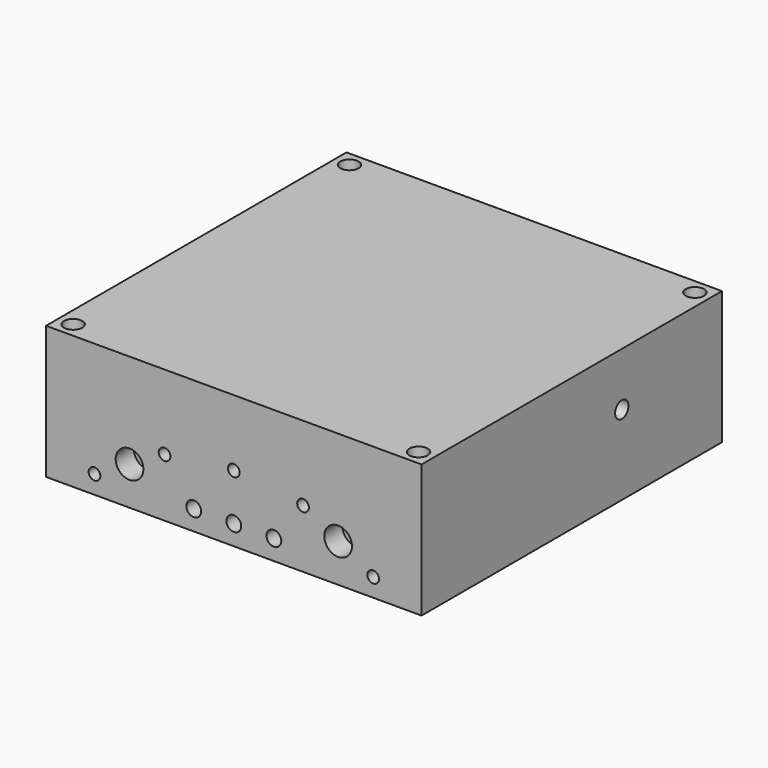
from build123d import *

# Parameters (mm, degrees)
F0_W             = 57.15
F0_H             = 57.15
F1_DEPTH         = 10.12825
F2_R             = 2.1082
F3_DEPTH         = 3.429
F5_R             = 1.397
F6_DEPTH         = 20.2575
F8_D             = 2.2606
F8_DEPTH         = 8.2658857143
F8_TIP           = 0.6791527577
F9_R             = 1.27
F10_DEPTH        = 6.35
F12_D            = 2.2606
F12_DEPTH        = 8.255
F12_TIP          = 0.6791527577
F14_D            = 1.778
F14_DEPTH        = 4.826
F14_TIP          = 0.5341650903
F14_ON_F13_D     = 1.778
F14_ON_F13_DEPTH = 4.826
F14_ON_F13_TIP   = 0.5341650903


with BuildPart() as f1:
    # F0 (on Top) → F1 (new body, symmetric)
    with BuildSketch(Plane.XY):
        Rectangle(F0_W, F0_H)
    extrude(amount=F1_DEPTH, both=True)

    # F2 (on face) → F3 (cut)
    with BuildSketch(Plane.XZ.offset(28.575)):
        with Locations((-15.875, -4.28625)):
            Circle(F2_R)
        with Locations((15.875, -4.28625)):
            Circle(F2_R)
    extrude(amount=-F3_DEPTH, mode=Mode.SUBTRACT)

    # F5 (on face) → F6 (cut, through all)
    with BuildSketch(Plane(origin=(0, 0, -10.12825), x_dir=(1, 0, 0), z_dir=(0, 0, -1))):
        with Locations((-26.289, 26.289)):
            Circle(F5_R)
        with Locations((26.289, 26.289)):
            Circle(F5_R)
        with Locations((26.289, -26.289)):
            Circle(F5_R)
        with Locations((-26.289, -26.289)):
            Circle(F5_R)
    extrude(amount=-F6_DEPTH, mode=Mode.SUBTRACT)

    # F8
    with Locations(Plane(origin=(-28.575, 0, 0), x_dir=(0, -1, 0), z_dir=(-1, 0, 0))):
        with Locations((12.7, 6.31825), (-12.7, 6.31825)):
            Hole(F8_D / 2, depth=F8_DEPTH)
            with Locations((0, 0, -(F8_DEPTH + F8_TIP / 2))):  # 118° drill point
                Cone(0, F8_D / 2, F8_TIP, mode=Mode.SUBTRACT)

    # F9 (on face) → F10 (cut)
    with BuildSketch(Plane.YZ.offset(28.575)):
        with Locations((9.525, 2.00025)):
            Circle(F9_R)
    extrude(amount=-F10_DEPTH, mode=Mode.SUBTRACT)

    # F12
    with Locations(Plane.XZ.offset(28.575)):
        with Locations((-6.096, -7.08025), (0, -7.08025), (6.096, -7.08025)):
            Hole(F12_D / 2, depth=F12_DEPTH)
            with Locations((0, 0, -(F12_DEPTH + F12_TIP / 2))):  # 118° drill point
                Cone(0, F12_D / 2, F12_TIP, mode=Mode.SUBTRACT)

    # F14
    with Locations(Plane.XZ.offset(28.575)):
        with Locations((-21.209, -7.33425), (-10.541, -1.23825), (10.541, -1.23825), (21.209, -7.33425)):
            Hole(F14_D / 2, depth=F14_DEPTH)
            with Locations((0, 0, -(F14_DEPTH + F14_TIP / 2))):  # 118° drill point
                Cone(0, F14_D / 2, F14_TIP, mode=Mode.SUBTRACT)

    # F14 on F13
    with Locations(Plane.XZ.offset(28.575)):
        with Locations((0, 0.03175)):
            Hole(F14_ON_F13_D / 2, depth=F14_ON_F13_DEPTH)
            with Locations((0, 0, -(F14_ON_F13_DEPTH + F14_ON_F13_TIP / 2))):  # 118° drill point
                Cone(0, F14_ON_F13_D / 2, F14_ON_F13_TIP, mode=Mode.SUBTRACT)


solid = f1.part
